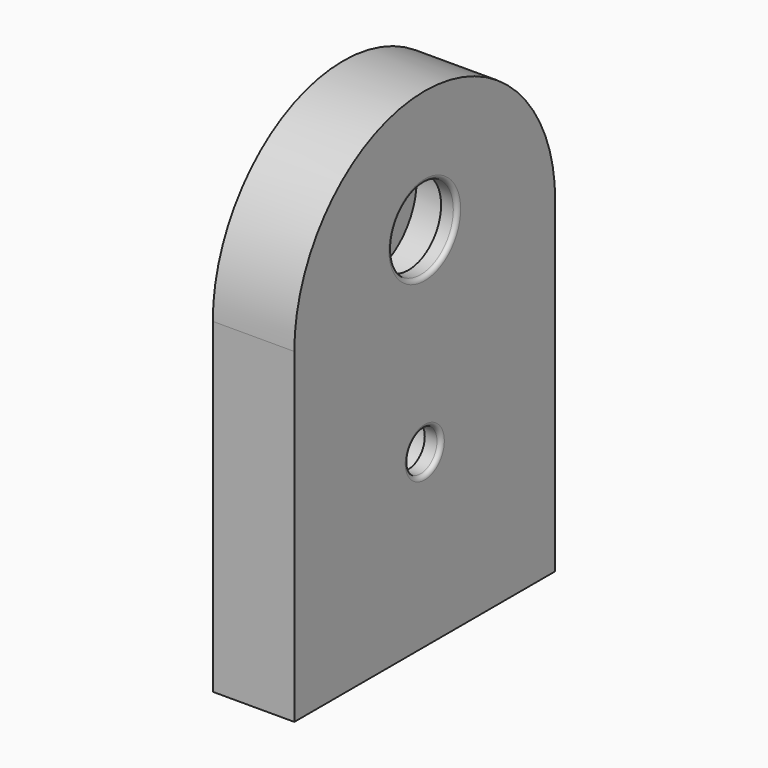
from build123d import *

# Parameters (mm, degrees)
F1_DEPTH = 40
F2_R     = 37.5
F2_R_2   = 20
F4_DEPTH = 25
F5_R     = 12.5
F5_R_2   = 25
F6_DEPTH = 10
F7_R     = 2.5


with BuildPart() as f1:
    # F0 (on Right) → F1 (new body)
    with BuildSketch(Plane.YZ):
        with BuildLine():
            Line((-100, -100), (100, -100))
            Line((100, -100), (100, 100))
            ThreePointArc((100, 100), (0, 200), (-100, 100))
            Line((-100, 100), (-100, -100))
        make_face()
    extrude(amount=F1_DEPTH)

    # F2 (on face) → F4 (cut)
    with BuildSketch(Plane.YZ.offset(40)):
        with Locations((0, 125)):
            Circle(F2_R)
        with Locations((0, 5)):
            Circle(F2_R_2)
    extrude(amount=-F4_DEPTH, mode=Mode.SUBTRACT)

    # F5 (on face) → F6 (join)
    with BuildSketch(Plane.YZ.offset(40)):
        with BuildLine():
            Line((-100, -100), (100, -100))
            Line((100, -100), (100, 100))
            ThreePointArc((100, 100), (0, 200), (-100, 100))
            Line((-100, 100), (-100, -100))
        make_face()
        with Locations((0, 5)):
            Circle(F5_R, mode=Mode.SUBTRACT)
        with Locations((0, 125)):
            Circle(F5_R_2, mode=Mode.SUBTRACT)
    extrude(amount=F6_DEPTH)

    # F7
    f7_edges = [f1.edges().sort_by_distance(p)[0] for p in [
        (50, -25, 125),
        (50, -12.5, 5),
    ]]
    fillet(f7_edges, radius=F7_R)


solid = f1.part
